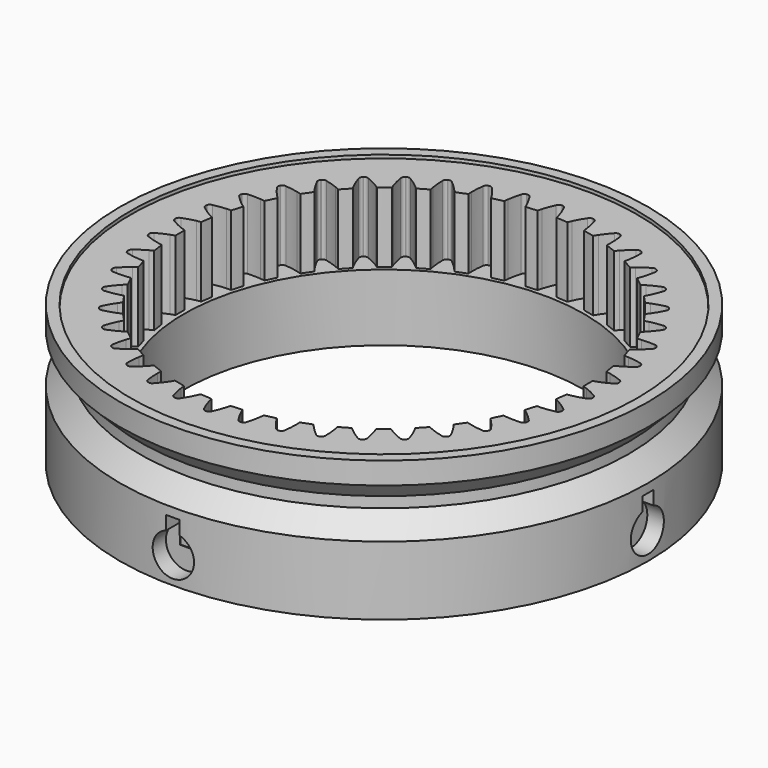
from build123d import *

# Parameters (mm, degrees)
PAD011_DEPTH          = 15
SKETCH019_R           = 0.15
SKETCH020_R           = 1.7
POCKET012_DEPTH       = 231.915721
POLARPATTERN001_COUNT = 6
POCKET013_DEPTH       = 2.55
POLARPATTERN_COUNT    = 6
SKETCH_R              = 1.5
POCKET_DEPTH          = 9
POLARPATTERN002_COUNT = 12
SKETCH022_W           = 2.6
SKETCH022_H           = 3.1
POLARPATTERN003_COUNT = 4
SKETCH023_W           = 2
SKETCH023_H           = 5
POCKET014_DEPTH       = 5
POLARPATTERN004_COUNT = 4
SKETCH024_R           = 30
POCKET015_DEPTH       = 21.001


with BuildPart() as pad011:
    # InvoluteGear005 → Pad011 (new body)
    with BuildSketch(Plane.XY.offset(10)):
        with BuildLine():
            add(Edge.make_bspline(
                [(32.945842, -1.894398), (32.276697, -1.515423), (31.687965, -1.251623), (31.199009, -1.06892)],
                knots=[0, 0, 0, 0, 1, 1, 1, 1], degree=3))
            add(Edge.make_bspline(
                [(31.199009, -1.06892), (30.97308, -0.984517), (30.768823, -0.917605), (30.587794, -0.864651)],
                knots=[0, 0, 0, 0, 1, 1, 1, 1], degree=3))
            ThreePointArc((30.587794, -0.864651), (30.575569, -2e-06), (30.587782, 0.864646))
            add(Edge.make_bspline(
                [(30.587782, 0.864646), (30.768823, 0.917605), (30.97308, 0.984517), (31.199009, 1.06892)],
                knots=[0, 0, 0, 0, 1, 1, 1, 1], degree=3))
            add(Edge.make_bspline(
                [(31.199009, 1.06892), (31.687965, 1.251623), (32.276697, 1.515423), (32.945842, 1.894398)],
                knots=[0, 0, 0, 0, 1, 1, 1, 1], degree=3))
            ThreePointArc((32.945842, 1.894398), (33.204161, 2.118555), (33.284887, 2.450909))
            ThreePointArc((33.284887, 2.450909), (33.281621, 2.494113), (33.278411, 2.537321))
            ThreePointArc((33.278411, 2.537321), (33.149052, 2.853931), (32.86021, 3.037084))
            add(Edge.make_bspline(
                [(32.86021, 3.037084), (32.142055, 3.312095), (31.520581, 3.485203), (31.009856, 3.59299)],
                knots=[0, 0, 0, 0, 1, 1, 1, 1], degree=3))
            add(Edge.make_bspline(
                [(31.009856, 3.59299), (30.773871, 3.642777), (30.561923, 3.678499), (30.375023, 3.703881)],
                knots=[0, 0, 0, 0, 1, 1, 1, 1], degree=3))
            ThreePointArc((30.375023, 3.703881), (30.234066, 4.55705), (30.117273, 5.413861))
            add(Edge.make_bspline(
                [(30.117273, 5.413861), (30.288399, 5.493211), (30.480402, 5.589819), (30.691228, 5.706952)],
                knots=[0, 0, 0, 0, 1, 1, 1, 1], degree=3))
            add(Edge.make_bspline(
                [(30.691228, 5.706952), (31.147492, 5.96049), (31.690331, 6.309089), (32.295519, 6.783562)],
                knots=[0, 0, 0, 0, 1, 1, 1, 1], degree=3))
            ThreePointArc((32.295519, 6.783562), (32.517544, 7.043716), (32.547833, 7.384389))
            ThreePointArc((32.547833, 7.384389), (32.538164, 7.426624), (32.52855, 7.468871))
            ThreePointArc((32.52855, 7.468871), (32.353449, 7.762665), (32.040535, 7.900723))
            add(Edge.make_bspline(
                [(32.040535, 7.900723), (31.289413, 8.065626), (30.64908, 8.144175), (30.127994, 8.174639)],
                knots=[0, 0, 0, 0, 1, 1, 1, 1], degree=3))
            add(Edge.make_bspline(
                [(30.127994, 8.174639), (29.887225, 8.188698), (29.67232, 8.192432), (29.483724, 8.189674)],
                knots=[0, 0, 0, 0, 1, 1, 1, 1], degree=3))
            ThreePointArc((29.483724, 8.189674), (29.217183, 9.012305), (28.973993, 9.842139))
            add(Edge.make_bspline(
                [(28.973993, 9.842139), (29.131382, 9.946108), (29.306842, 10.070254), (29.497855, 10.2175)],
                knots=[0, 0, 0, 0, 1, 1, 1, 1], degree=3))
            add(Edge.make_bspline(
                [(29.497855, 10.2175), (29.911235, 10.536209), (30.396055, 10.961821), (30.923768, 11.521192)],
                knots=[0, 0, 0, 0, 1, 1, 1, 1], degree=3))
            ThreePointArc((30.923768, 11.521192), (31.104538, 11.811532), (31.083714, 12.152914))
            ThreePointArc((31.083714, 12.152914), (31.067859, 12.193236), (31.052056, 12.233579))
            ThreePointArc((31.052056, 12.233579), (30.835122, 12.497993), (30.505127, 12.587872))
            add(Edge.make_bspline(
                [(30.505127, 12.587872), (29.737817, 12.638985), (29.092929, 12.621219), (28.573123, 12.573679)],
                knots=[0, 0, 0, 0, 1, 1, 1, 1], degree=3))
            add(Edge.make_bspline(
                [(28.573123, 12.573679), (28.332947, 12.551697), (28.119886, 12.523359), (27.933808, 12.492523)],
                knots=[0, 0, 0, 0, 1, 1, 1, 1], degree=3))
            ThreePointArc((27.933808, 12.492523), (27.547637, 13.26624), (27.183483, 14.05056))
            add(Edge.make_bspline(
                [(27.183483, 14.05056), (27.323618, 14.176826), (27.478615, 14.325735), (27.645549, 14.499806)],
                knots=[0, 0, 0, 0, 1, 1, 1, 1], degree=3))
            add(Edge.make_bspline(
                [(27.645549, 14.499806), (28.006811, 14.876566), (28.422782, 15.369683), (28.86123, 16.001458)],
                knots=[0, 0, 0, 0, 1, 1, 1, 1], degree=3))
            ThreePointArc((28.86123, 16.001458), (28.996709, 16.315498), (28.925237, 16.649963))
            ThreePointArc((28.925237, 16.649963), (28.903549, 16.687472), (28.88191, 16.725009))
            ThreePointArc((28.88191, 16.725009), (28.62799, 16.954138), (28.288285, 16.993829))
            add(Edge.make_bspline(
                [(28.288285, 16.993829), (27.521927, 16.93001), (26.88689, 16.816327), (26.379975, 16.691845)],
                knots=[0, 0, 0, 0, 1, 1, 1, 1], degree=3))
            add(Edge.make_bspline(
                [(26.379975, 16.691845), (26.145758, 16.634311), (25.9393, 16.574535), (25.759897, 16.51631)],
                knots=[0, 0, 0, 0, 1, 1, 1, 1], degree=3))
            ThreePointArc((25.759897, 16.51631), (25.262722, 17.223829), (24.785739, 17.945115))
            add(Edge.make_bspline(
                [(24.785739, 17.945115), (24.90549, 18.090856), (25.036562, 18.261204), (25.175687, 18.458211)],
                knots=[0, 0, 0, 0, 1, 1, 1, 1], degree=3))
            add(Edge.make_bspline(
                [(25.175687, 18.458211), (25.476761, 18.884606), (25.814591, 19.434212), (26.15398, 20.124279)],
                knots=[0, 0, 0, 0, 1, 1, 1, 1], degree=3))
            ThreePointArc((26.15398, 20.124279), (26.241141, 20.455003), (26.120618, 20.77508))
            ThreePointArc((26.120618, 20.77508), (26.093582, 20.808937), (26.06659, 20.842829))
            ThreePointArc((26.06659, 20.842829), (25.781356, 21.031554), (25.439529, 21.020172))
            add(Edge.make_bspline(
                [(25.439529, 21.020172), (24.691243, 20.842846), (24.080242, 20.635785), (23.597542, 20.437142)],
                knots=[0, 0, 0, 0, 1, 1, 1, 1], degree=3))
            add(Edge.make_bspline(
                [(23.597542, 20.437142), (23.374516, 20.345343), (23.179273, 20.255463), (23.010552, 20.17115)],
                knots=[0, 0, 0, 0, 1, 1, 1, 1], degree=3))
            ThreePointArc((23.010552, 20.17115), (22.41348, 20.796667), (21.834322, 21.438806))
            add(Edge.make_bspline(
                [(21.834322, 21.438806), (21.931014, 21.600767), (22.035233, 21.788747), (22.143442, 22.004289)],
                knots=[0, 0, 0, 0, 1, 1, 1, 1], degree=3))
            add(Edge.make_bspline(
                [(22.143442, 22.004289), (22.377602, 22.470795), (22.629744, 23.064613), (22.862494, 23.797555)],
                knots=[0, 0, 0, 0, 1, 1, 1, 1], degree=3))
            ThreePointArc((22.862494, 23.797555), (22.899389, 24.137576), (22.732507, 24.436116))
            ThreePointArc((22.732507, 24.436116), (22.700727, 24.465565), (22.668985, 24.495056))
            ThreePointArc((22.668985, 24.495056), (22.358809, 24.639161), (22.022496, 24.576959))
            add(Edge.make_bspline(
                [(22.022496, 24.576959), (21.308997, 24.290087), (20.735681, 23.994274), (20.287979, 23.725907)],
                knots=[0, 0, 0, 0, 1, 1, 1, 1], degree=3))
            add(Edge.make_bspline(
                [(20.287979, 23.725907), (20.081126, 23.601893), (19.90146, 23.483917), (19.747189, 23.375399)],
                knots=[0, 0, 0, 0, 1, 1, 1, 1], degree=3))
            ThreePointArc((19.747189, 23.375399), (19.063558, 23.904941), (18.395162, 24.453589))
            add(Edge.make_bspline(
                [(18.395162, 24.453589), (18.466635, 24.628152), (18.541673, 24.829566), (18.616549, 25.058828)],
                knots=[0, 0, 0, 0, 1, 1, 1, 1], degree=3))
            add(Edge.make_bspline(
                [(18.616549, 25.058828), (18.778565, 25.555023), (18.939386, 26.179789), (19.060297, 26.939234)],
                knots=[0, 0, 0, 0, 1, 1, 1, 1], degree=3))
            ThreePointArc((19.060297, 26.939234), (19.046103, 27.280956), (18.83659, 27.551289))
            ThreePointArc((18.83659, 27.551289), (18.800775, 27.575673), (18.764992, 27.600103))
            ThreePointArc((18.764992, 27.600103), (18.436803, 27.69637), (18.113518, 27.584738))
            add(Edge.make_bspline(
                [(18.113518, 27.584738), (17.450744, 27.194728), (16.92792, 26.816771), (16.525216, 26.484675)],
                knots=[0, 0, 0, 0, 1, 1, 1, 1], degree=3))
            add(Edge.make_bspline(
                [(16.525216, 26.484675), (16.339157, 26.331216), (16.179081, 26.18778), (16.042707, 26.057481)],
                knots=[0, 0, 0, 0, 1, 1, 1, 1], degree=3))
            ThreePointArc((16.042707, 26.057481), (15.287787, 26.479219), (14.545085, 26.922119))
            add(Edge.make_bspline(
                [(14.545085, 26.922119), (14.589743, 27.105385), (14.633923, 27.315733), (14.673793, 27.553594)],
                knots=[0, 0, 0, 0, 1, 1, 1, 1], degree=3))
            add(Edge.make_bspline(
                [(14.673793, 27.553594), (14.760045, 28.068394), (14.825954, 28.710151), (14.832325, 29.479135)],
                knots=[0, 0, 0, 0, 1, 1, 1, 1], degree=3))
            ThreePointArc((14.832325, 29.479135), (14.767358, 29.814925), (14.519894, 30.051012))
            ThreePointArc((14.519894, 30.051012), (14.480845, 30.069785), (14.441821, 30.08861))
            ThreePointArc((14.441821, 30.08861), (14.10295, 30.134887), (13.799913, 29.976319))
            add(Edge.make_bspline(
                [(13.799913, 29.976319), (13.202669, 29.491884), (12.742017, 29.040225), (12.393307, 28.651819)],
                knots=[0, 0, 0, 0, 1, 1, 1, 1], degree=3))
            add(Edge.make_bspline(
                [(12.393307, 28.651819), (12.232198, 28.472343), (12.095288, 28.306651), (11.979857, 28.157482)],
                knots=[0, 0, 0, 0, 1, 1, 1, 1], degree=3))
            ThreePointArc((11.979857, 28.157482), (11.170512, 28.461994), (10.370095, 28.789254))
            add(Edge.make_bspline(
                [(10.370095, 28.789254), (10.386939, 28.977129), (10.399276, 29.191712), (10.403249, 29.432859)],
                knots=[0, 0, 0, 0, 1, 1, 1, 1], degree=3))
            add(Edge.make_bspline(
                [(10.403249, 29.432859), (10.41181, 29.954764), (10.381334, 30.599176), (10.273023, 31.360521)],
                knots=[0, 0, 0, 0, 1, 1, 1, 1], degree=3))
            ThreePointArc((10.273023, 31.360521), (10.158735, 31.682877), (9.878848, 31.879445))
            ThreePointArc((9.878848, 31.879445), (9.837437, 31.892189), (9.796043, 31.904986))
            ThreePointArc((9.796043, 31.904986), (9.45406, 31.900241), (9.178041, 31.698278))
            add(Edge.make_bspline(
                [(9.178041, 31.698278), (8.659669, 31.13024), (8.271478, 30.614969), (7.984552, 30.178928)],
                knots=[0, 0, 0, 0, 1, 1, 1, 1], degree=3))
            add(Edge.make_bspline(
                [(7.984552, 30.178928), (7.851992, 29.977445), (7.741306, 29.793198), (7.649397, 29.628491)],
                knots=[0, 0, 0, 0, 1, 1, 1, 1], degree=3))
            ThreePointArc((7.649397, 29.628491), (6.803707, 29.808975), (5.963454, 30.013284))
            add(Edge.make_bspline(
                [(5.963454, 30.013284), (5.952109, 30.201571), (5.932325, 30.415596), (5.900313, 30.654642)],
                knots=[0, 0, 0, 0, 1, 1, 1, 1], degree=3))
            add(Edge.make_bspline(
                [(5.900313, 30.654642), (5.830993, 31.171994), (5.704813, 31.804667), (5.484239, 32.541364)],
                knots=[0, 0, 0, 0, 1, 1, 1, 1], degree=3))
            ThreePointArc((5.484239, 32.541364), (5.323182, 32.843086), (5.017125, 32.995743))
            ThreePointArc((5.017125, 32.995743), (4.974277, 33.002173), (4.931438, 33.008659))
            ThreePointArc((4.931438, 33.008659), (4.593981, 32.952996), (4.351146, 32.712151))
            add(Edge.make_bspline(
                [(4.351146, 32.712151), (3.923226, 32.073197), (3.616168, 31.505825), (3.397436, 31.03189)],
                knots=[0, 0, 0, 0, 1, 1, 1, 1], degree=3))
            add(Edge.make_bspline(
                [(3.397436, 31.03189), (3.296386, 30.8129), (3.214396, 30.614215), (3.148062, 30.437649)],
                knots=[0, 0, 0, 0, 1, 1, 1, 1], degree=3))
            ThreePointArc((3.148062, 30.437649), (2.284918, 30.490074), (1.423599, 30.566867))
            add(Edge.make_bspline(
                [(1.423599, 30.566867), (1.384318, 30.75136), (1.332857, 30.960046), (1.265574, 31.191651)],
                knots=[0, 0, 0, 0, 1, 1, 1, 1], degree=3))
            add(Edge.make_bspline(
                [(1.265574, 31.191651), (1.119921, 31.692893), (0.900855, 32.299693), (0.572945, 32.995288)],
                knots=[0, 0, 0, 0, 1, 1, 1, 1], degree=3))
            ThreePointArc((0.572945, 32.995288), (0.368719, 33.269636), (0.043327, 33.374972))
            ThreePointArc((0.043327, 33.374972), (0, 33.374944), (-0.043327, 33.374972))
            ThreePointArc((-0.043327, 33.374972), (-0.368719, 33.269636), (-0.572945, 32.995288))
            add(Edge.make_bspline(
                [(-0.572945, 32.995288), (-0.900855, 32.299693), (-1.119921, 31.692893), (-1.265574, 31.191651)],
                knots=[0, 0, 0, 0, 1, 1, 1, 1], degree=3))
            add(Edge.make_bspline(
                [(-1.265574, 31.191651), (-1.332857, 30.960046), (-1.384318, 30.75136), (-1.423596, 30.56688)],
                knots=[0, 0, 0, 0, 1, 1, 1, 1], degree=3))
            ThreePointArc((-1.423596, 30.56688), (-2.284913, 30.490074), (-3.148056, 30.437637))
            add(Edge.make_bspline(
                [(-3.148056, 30.437637), (-3.214396, 30.614215), (-3.296386, 30.8129), (-3.397436, 31.03189)],
                knots=[0, 0, 0, 0, 1, 1, 1, 1], degree=3))
            add(Edge.make_bspline(
                [(-3.397436, 31.03189), (-3.616168, 31.505825), (-3.923226, 32.073197), (-4.351146, 32.712151)],
                knots=[0, 0, 0, 0, 1, 1, 1, 1], degree=3))
            ThreePointArc((-4.351146, 32.712151), (-4.593981, 32.952996), (-4.931438, 33.008659))
            ThreePointArc((-4.931438, 33.008659), (-4.974277, 33.002173), (-5.017125, 32.995743))
            ThreePointArc((-5.017125, 32.995743), (-5.323182, 32.843086), (-5.484239, 32.541364))
            add(Edge.make_bspline(
                [(-5.484239, 32.541364), (-5.704813, 31.804667), (-5.830993, 31.171994), (-5.900313, 30.654642)],
                knots=[0, 0, 0, 0, 1, 1, 1, 1], degree=3))
            add(Edge.make_bspline(
                [(-5.900313, 30.654642), (-5.932325, 30.415596), (-5.952109, 30.201571), (-5.963452, 30.013297)],
                knots=[0, 0, 0, 0, 1, 1, 1, 1], degree=3))
            ThreePointArc((-5.963452, 30.013297), (-6.803702, 29.808977), (-7.649389, 29.62848))
            add(Edge.make_bspline(
                [(-7.649389, 29.62848), (-7.741306, 29.793198), (-7.851992, 29.977445), (-7.984552, 30.178928)],
                knots=[0, 0, 0, 0, 1, 1, 1, 1], degree=3))
            add(Edge.make_bspline(
                [(-7.984552, 30.178928), (-8.271478, 30.614969), (-8.659669, 31.13024), (-9.178041, 31.698278)],
                knots=[0, 0, 0, 0, 1, 1, 1, 1], degree=3))
            ThreePointArc((-9.178041, 31.698278), (-9.45406, 31.900241), (-9.796043, 31.904986))
            ThreePointArc((-9.796043, 31.904986), (-9.837437, 31.892189), (-9.878848, 31.879445))
            ThreePointArc((-9.878848, 31.879445), (-10.158735, 31.682877), (-10.273023, 31.360521))
            add(Edge.make_bspline(
                [(-10.273023, 31.360521), (-10.381334, 30.599176), (-10.41181, 29.954764), (-10.403249, 29.432859)],
                knots=[0, 0, 0, 0, 1, 1, 1, 1], degree=3))
            add(Edge.make_bspline(
                [(-10.403249, 29.432859), (-10.399276, 29.191712), (-10.386939, 28.977129), (-10.370095, 28.789267)],
                knots=[0, 0, 0, 0, 1, 1, 1, 1], degree=3))
            ThreePointArc((-10.370095, 28.789267), (-11.170508, 28.461996), (-11.979848, 28.157472))
            add(Edge.make_bspline(
                [(-11.979848, 28.157472), (-12.095288, 28.306651), (-12.232198, 28.472343), (-12.393307, 28.651819)],
                knots=[0, 0, 0, 0, 1, 1, 1, 1], degree=3))
            add(Edge.make_bspline(
                [(-12.393307, 28.651819), (-12.742017, 29.040225), (-13.202669, 29.491884), (-13.799913, 29.976319)],
                knots=[0, 0, 0, 0, 1, 1, 1, 1], degree=3))
            ThreePointArc((-13.799913, 29.976319), (-14.10295, 30.134887), (-14.441821, 30.08861))
            ThreePointArc((-14.441821, 30.08861), (-14.480845, 30.069785), (-14.519894, 30.051012))
            ThreePointArc((-14.519894, 30.051012), (-14.767358, 29.814925), (-14.832325, 29.479135))
            add(Edge.make_bspline(
                [(-14.832325, 29.479135), (-14.825954, 28.710151), (-14.760045, 28.068394), (-14.673793, 27.553594)],
                knots=[0, 0, 0, 0, 1, 1, 1, 1], degree=3))
            add(Edge.make_bspline(
                [(-14.673793, 27.553594), (-14.633923, 27.315733), (-14.589743, 27.105385), (-14.545087, 26.922132)],
                knots=[0, 0, 0, 0, 1, 1, 1, 1], degree=3))
            ThreePointArc((-14.545087, 26.922132), (-15.287783, 26.479221), (-16.042696, 26.057473))
            add(Edge.make_bspline(
                [(-16.042696, 26.057473), (-16.179081, 26.18778), (-16.339157, 26.331216), (-16.525216, 26.484675)],
                knots=[0, 0, 0, 0, 1, 1, 1, 1], degree=3))
            add(Edge.make_bspline(
                [(-16.525216, 26.484675), (-16.92792, 26.816771), (-17.450744, 27.194728), (-18.113518, 27.584738)],
                knots=[0, 0, 0, 0, 1, 1, 1, 1], degree=3))
            ThreePointArc((-18.113518, 27.584738), (-18.436803, 27.69637), (-18.764992, 27.600103))
            ThreePointArc((-18.764992, 27.600103), (-18.800775, 27.575673), (-18.83659, 27.551289))
            ThreePointArc((-18.83659, 27.551289), (-19.046103, 27.280956), (-19.060297, 26.939234))
            add(Edge.make_bspline(
                [(-19.060297, 26.939234), (-18.939386, 26.179789), (-18.778565, 25.555023), (-18.616549, 25.058828)],
                knots=[0, 0, 0, 0, 1, 1, 1, 1], degree=3))
            add(Edge.make_bspline(
                [(-18.616549, 25.058828), (-18.541673, 24.829566), (-18.466635, 24.628152), (-18.395166, 24.453601)],
                knots=[0, 0, 0, 0, 1, 1, 1, 1], degree=3))
            ThreePointArc((-18.395166, 24.453601), (-19.063554, 23.904944), (-19.747177, 23.375393))
            add(Edge.make_bspline(
                [(-19.747177, 23.375393), (-19.90146, 23.483917), (-20.081126, 23.601893), (-20.287979, 23.725907)],
                knots=[0, 0, 0, 0, 1, 1, 1, 1], degree=3))
            add(Edge.make_bspline(
                [(-20.287979, 23.725907), (-20.735681, 23.994274), (-21.308997, 24.290087), (-22.022496, 24.576959)],
                knots=[0, 0, 0, 0, 1, 1, 1, 1], degree=3))
            ThreePointArc((-22.022496, 24.576959), (-22.358809, 24.639161), (-22.668985, 24.495056))
            ThreePointArc((-22.668985, 24.495056), (-22.700727, 24.465565), (-22.732507, 24.436116))
            ThreePointArc((-22.732507, 24.436116), (-22.899389, 24.137576), (-22.862494, 23.797555))
            add(Edge.make_bspline(
                [(-22.862494, 23.797555), (-22.629744, 23.064613), (-22.377602, 22.470795), (-22.143442, 22.004289)],
                knots=[0, 0, 0, 0, 1, 1, 1, 1], degree=3))
            add(Edge.make_bspline(
                [(-22.143442, 22.004289), (-22.035233, 21.788747), (-21.931014, 21.600767), (-21.834328, 21.438817)],
                knots=[0, 0, 0, 0, 1, 1, 1, 1], degree=3))
            ThreePointArc((-21.834328, 21.438817), (-22.413477, 20.796671), (-23.010539, 20.171145))
            add(Edge.make_bspline(
                [(-23.010539, 20.171145), (-23.179273, 20.255463), (-23.374516, 20.345343), (-23.597542, 20.437142)],
                knots=[0, 0, 0, 0, 1, 1, 1, 1], degree=3))
            add(Edge.make_bspline(
                [(-23.597542, 20.437142), (-24.080242, 20.635785), (-24.691243, 20.842846), (-25.439529, 21.020172)],
                knots=[0, 0, 0, 0, 1, 1, 1, 1], degree=3))
            ThreePointArc((-25.439529, 21.020172), (-25.781356, 21.031554), (-26.06659, 20.842829))
            ThreePointArc((-26.06659, 20.842829), (-26.093582, 20.808937), (-26.120618, 20.77508))
            ThreePointArc((-26.120618, 20.77508), (-26.241141, 20.455003), (-26.15398, 20.124279))
            add(Edge.make_bspline(
                [(-26.15398, 20.124279), (-25.814591, 19.434212), (-25.476761, 18.884606), (-25.175687, 18.458211)],
                knots=[0, 0, 0, 0, 1, 1, 1, 1], degree=3))
            add(Edge.make_bspline(
                [(-25.175687, 18.458211), (-25.036562, 18.261204), (-24.90549, 18.090856), (-24.785746, 17.945126)],
                knots=[0, 0, 0, 0, 1, 1, 1, 1], degree=3))
            ThreePointArc((-24.785746, 17.945126), (-25.26272, 17.223834), (-25.759884, 16.516307))
            add(Edge.make_bspline(
                [(-25.759884, 16.516307), (-25.9393, 16.574535), (-26.145758, 16.634311), (-26.379975, 16.691845)],
                knots=[0, 0, 0, 0, 1, 1, 1, 1], degree=3))
            add(Edge.make_bspline(
                [(-26.379975, 16.691845), (-26.88689, 16.816327), (-27.521927, 16.93001), (-28.288285, 16.993829)],
                knots=[0, 0, 0, 0, 1, 1, 1, 1], degree=3))
            ThreePointArc((-28.288285, 16.993829), (-28.62799, 16.954138), (-28.88191, 16.725009))
            ThreePointArc((-28.88191, 16.725009), (-28.903549, 16.687472), (-28.925237, 16.649963))
            ThreePointArc((-28.925237, 16.649963), (-28.996709, 16.315498), (-28.86123, 16.001458))
            add(Edge.make_bspline(
                [(-28.86123, 16.001458), (-28.422782, 15.369683), (-28.006811, 14.876566), (-27.645549, 14.499806)],
                knots=[0, 0, 0, 0, 1, 1, 1, 1], degree=3))
            add(Edge.make_bspline(
                [(-27.645549, 14.499806), (-27.478615, 14.325735), (-27.323618, 14.176826), (-27.183492, 14.05057)],
                knots=[0, 0, 0, 0, 1, 1, 1, 1], degree=3))
            ThreePointArc((-27.183492, 14.05057), (-27.547635, 13.266245), (-27.933795, 12.492522))
            add(Edge.make_bspline(
                [(-27.933795, 12.492522), (-28.119886, 12.523359), (-28.332947, 12.551697), (-28.573123, 12.573679)],
                knots=[0, 0, 0, 0, 1, 1, 1, 1], degree=3))
            add(Edge.make_bspline(
                [(-28.573123, 12.573679), (-29.092929, 12.621219), (-29.737817, 12.638985), (-30.505127, 12.587872)],
                knots=[0, 0, 0, 0, 1, 1, 1, 1], degree=3))
            ThreePointArc((-30.505127, 12.587872), (-30.835122, 12.497993), (-31.052056, 12.233579))
            ThreePointArc((-31.052056, 12.233579), (-31.067859, 12.193236), (-31.083714, 12.152914))
            ThreePointArc((-31.083714, 12.152914), (-31.104538, 11.811532), (-30.923768, 11.521192))
            add(Edge.make_bspline(
                [(-30.923768, 11.521192), (-30.396055, 10.961821), (-29.911235, 10.536209), (-29.497855, 10.2175)],
                knots=[0, 0, 0, 0, 1, 1, 1, 1], degree=3))
            add(Edge.make_bspline(
                [(-29.497855, 10.2175), (-29.306842, 10.070254), (-29.131382, 9.946108), (-28.974004, 9.842147)],
                knots=[0, 0, 0, 0, 1, 1, 1, 1], degree=3))
            ThreePointArc((-28.974004, 9.842147), (-29.217182, 9.01231), (-29.483711, 8.189675))
            add(Edge.make_bspline(
                [(-29.483711, 8.189675), (-29.67232, 8.192432), (-29.887225, 8.188698), (-30.127994, 8.174639)],
                knots=[0, 0, 0, 0, 1, 1, 1, 1], degree=3))
            add(Edge.make_bspline(
                [(-30.127994, 8.174639), (-30.64908, 8.144175), (-31.289413, 8.065626), (-32.040535, 7.900723)],
                knots=[0, 0, 0, 0, 1, 1, 1, 1], degree=3))
            ThreePointArc((-32.040535, 7.900723), (-32.353449, 7.762665), (-32.52855, 7.468871))
            ThreePointArc((-32.52855, 7.468871), (-32.538164, 7.426624), (-32.547833, 7.384389))
            ThreePointArc((-32.547833, 7.384389), (-32.517544, 7.043716), (-32.295519, 6.783562))
            add(Edge.make_bspline(
                [(-32.295519, 6.783562), (-31.690331, 6.309089), (-31.147492, 5.96049), (-30.691228, 5.706952)],
                knots=[0, 0, 0, 0, 1, 1, 1, 1], degree=3))
            add(Edge.make_bspline(
                [(-30.691228, 5.706952), (-30.480402, 5.589819), (-30.288399, 5.493211), (-30.117284, 5.413868)],
                knots=[0, 0, 0, 0, 1, 1, 1, 1], degree=3))
            ThreePointArc((-30.117284, 5.413868), (-30.234065, 4.557055), (-30.37501, 3.703884))
            add(Edge.make_bspline(
                [(-30.37501, 3.703884), (-30.561923, 3.678499), (-30.773871, 3.642777), (-31.009856, 3.59299)],
                knots=[0, 0, 0, 0, 1, 1, 1, 1], degree=3))
            add(Edge.make_bspline(
                [(-31.009856, 3.59299), (-31.520581, 3.485203), (-32.142055, 3.312095), (-32.86021, 3.037084)],
                knots=[0, 0, 0, 0, 1, 1, 1, 1], degree=3))
            ThreePointArc((-32.86021, 3.037084), (-33.149052, 2.853931), (-33.278411, 2.537321))
            ThreePointArc((-33.278411, 2.537321), (-33.281621, 2.494113), (-33.284887, 2.450909))
            ThreePointArc((-33.284887, 2.450909), (-33.204161, 2.118555), (-32.945842, 1.894398))
            add(Edge.make_bspline(
                [(-32.945842, 1.894398), (-32.276697, 1.515423), (-31.687965, 1.251623), (-31.199009, 1.06892)],
                knots=[0, 0, 0, 0, 1, 1, 1, 1], degree=3))
            add(Edge.make_bspline(
                [(-31.199009, 1.06892), (-30.97308, 0.984517), (-30.768823, 0.917605), (-30.587794, 0.864651)],
                knots=[0, 0, 0, 0, 1, 1, 1, 1], degree=3))
            ThreePointArc((-30.587794, 0.864651), (-30.575569, 2e-06), (-30.587782, -0.864646))
            add(Edge.make_bspline(
                [(-30.587782, -0.864646), (-30.768823, -0.917605), (-30.97308, -0.984517), (-31.199009, -1.06892)],
                knots=[0, 0, 0, 0, 1, 1, 1, 1], degree=3))
            add(Edge.make_bspline(
                [(-31.199009, -1.06892), (-31.687965, -1.251623), (-32.276697, -1.515423), (-32.945842, -1.894398)],
                knots=[0, 0, 0, 0, 1, 1, 1, 1], degree=3))
            ThreePointArc((-32.945842, -1.894398), (-33.204161, -2.118555), (-33.284887, -2.450909))
            ThreePointArc((-33.284887, -2.450909), (-33.281621, -2.494113), (-33.278411, -2.537321))
            ThreePointArc((-33.278411, -2.537321), (-33.149052, -2.853931), (-32.86021, -3.037084))
            add(Edge.make_bspline(
                [(-32.86021, -3.037084), (-32.142055, -3.312095), (-31.520581, -3.485203), (-31.009856, -3.59299)],
                knots=[0, 0, 0, 0, 1, 1, 1, 1], degree=3))
            add(Edge.make_bspline(
                [(-31.009856, -3.59299), (-30.773871, -3.642777), (-30.561923, -3.678499), (-30.375023, -3.703881)],
                knots=[0, 0, 0, 0, 1, 1, 1, 1], degree=3))
            ThreePointArc((-30.375023, -3.703881), (-30.234066, -4.55705), (-30.117273, -5.413861))
            add(Edge.make_bspline(
                [(-30.117273, -5.413861), (-30.288399, -5.493211), (-30.480402, -5.589819), (-30.691228, -5.706952)],
                knots=[0, 0, 0, 0, 1, 1, 1, 1], degree=3))
            add(Edge.make_bspline(
                [(-30.691228, -5.706952), (-31.147492, -5.96049), (-31.690331, -6.309089), (-32.295519, -6.783562)],
                knots=[0, 0, 0, 0, 1, 1, 1, 1], degree=3))
            ThreePointArc((-32.295519, -6.783562), (-32.517544, -7.043716), (-32.547833, -7.384389))
            ThreePointArc((-32.547833, -7.384389), (-32.538164, -7.426624), (-32.52855, -7.468871))
            ThreePointArc((-32.52855, -7.468871), (-32.353449, -7.762665), (-32.040535, -7.900723))
            add(Edge.make_bspline(
                [(-32.040535, -7.900723), (-31.289413, -8.065626), (-30.64908, -8.144175), (-30.127994, -8.174639)],
                knots=[0, 0, 0, 0, 1, 1, 1, 1], degree=3))
            add(Edge.make_bspline(
                [(-30.127994, -8.174639), (-29.887225, -8.188698), (-29.67232, -8.192432), (-29.483724, -8.189674)],
                knots=[0, 0, 0, 0, 1, 1, 1, 1], degree=3))
            ThreePointArc((-29.483724, -8.189674), (-29.217183, -9.012305), (-28.973993, -9.842139))
            add(Edge.make_bspline(
                [(-28.973993, -9.842139), (-29.131382, -9.946108), (-29.306842, -10.070254), (-29.497855, -10.2175)],
                knots=[0, 0, 0, 0, 1, 1, 1, 1], degree=3))
            add(Edge.make_bspline(
                [(-29.497855, -10.2175), (-29.911235, -10.536209), (-30.396055, -10.961821), (-30.923768, -11.521192)],
                knots=[0, 0, 0, 0, 1, 1, 1, 1], degree=3))
            ThreePointArc((-30.923768, -11.521192), (-31.104538, -11.811532), (-31.083714, -12.152914))
            ThreePointArc((-31.083714, -12.152914), (-31.067859, -12.193236), (-31.052056, -12.233579))
            ThreePointArc((-31.052056, -12.233579), (-30.835122, -12.497993), (-30.505127, -12.587872))
            add(Edge.make_bspline(
                [(-30.505127, -12.587872), (-29.737817, -12.638985), (-29.092929, -12.621219), (-28.573123, -12.573679)],
                knots=[0, 0, 0, 0, 1, 1, 1, 1], degree=3))
            add(Edge.make_bspline(
                [(-28.573123, -12.573679), (-28.332947, -12.551697), (-28.119886, -12.523359), (-27.933808, -12.492523)],
                knots=[0, 0, 0, 0, 1, 1, 1, 1], degree=3))
            ThreePointArc((-27.933808, -12.492523), (-27.547637, -13.26624), (-27.183483, -14.05056))
            add(Edge.make_bspline(
                [(-27.183483, -14.05056), (-27.323618, -14.176826), (-27.478615, -14.325735), (-27.645549, -14.499806)],
                knots=[0, 0, 0, 0, 1, 1, 1, 1], degree=3))
            add(Edge.make_bspline(
                [(-27.645549, -14.499806), (-28.006811, -14.876566), (-28.422782, -15.369683), (-28.86123, -16.001458)],
                knots=[0, 0, 0, 0, 1, 1, 1, 1], degree=3))
            ThreePointArc((-28.86123, -16.001458), (-28.996709, -16.315498), (-28.925237, -16.649963))
            ThreePointArc((-28.925237, -16.649963), (-28.903549, -16.687472), (-28.88191, -16.725009))
            ThreePointArc((-28.88191, -16.725009), (-28.62799, -16.954138), (-28.288285, -16.993829))
            add(Edge.make_bspline(
                [(-28.288285, -16.993829), (-27.521927, -16.93001), (-26.88689, -16.816327), (-26.379975, -16.691845)],
                knots=[0, 0, 0, 0, 1, 1, 1, 1], degree=3))
            add(Edge.make_bspline(
                [(-26.379975, -16.691845), (-26.145758, -16.634311), (-25.9393, -16.574535), (-25.759897, -16.51631)],
                knots=[0, 0, 0, 0, 1, 1, 1, 1], degree=3))
            ThreePointArc((-25.759897, -16.51631), (-25.262722, -17.223829), (-24.785739, -17.945115))
            add(Edge.make_bspline(
                [(-24.785739, -17.945115), (-24.90549, -18.090856), (-25.036562, -18.261204), (-25.175687, -18.458211)],
                knots=[0, 0, 0, 0, 1, 1, 1, 1], degree=3))
            add(Edge.make_bspline(
                [(-25.175687, -18.458211), (-25.476761, -18.884606), (-25.814591, -19.434212), (-26.15398, -20.124279)],
                knots=[0, 0, 0, 0, 1, 1, 1, 1], degree=3))
            ThreePointArc((-26.15398, -20.124279), (-26.241141, -20.455003), (-26.120618, -20.77508))
            ThreePointArc((-26.120618, -20.77508), (-26.093582, -20.808937), (-26.06659, -20.842829))
            ThreePointArc((-26.06659, -20.842829), (-25.781356, -21.031554), (-25.439529, -21.020172))
            add(Edge.make_bspline(
                [(-25.439529, -21.020172), (-24.691243, -20.842846), (-24.080242, -20.635785), (-23.597542, -20.437142)],
                knots=[0, 0, 0, 0, 1, 1, 1, 1], degree=3))
            add(Edge.make_bspline(
                [(-23.597542, -20.437142), (-23.374516, -20.345343), (-23.179273, -20.255463), (-23.010552, -20.17115)],
                knots=[0, 0, 0, 0, 1, 1, 1, 1], degree=3))
            ThreePointArc((-23.010552, -20.17115), (-22.41348, -20.796667), (-21.834322, -21.438806))
            add(Edge.make_bspline(
                [(-21.834322, -21.438806), (-21.931014, -21.600767), (-22.035233, -21.788747), (-22.143442, -22.004289)],
                knots=[0, 0, 0, 0, 1, 1, 1, 1], degree=3))
            add(Edge.make_bspline(
                [(-22.143442, -22.004289), (-22.377602, -22.470795), (-22.629744, -23.064613), (-22.862494, -23.797555)],
                knots=[0, 0, 0, 0, 1, 1, 1, 1], degree=3))
            ThreePointArc((-22.862494, -23.797555), (-22.899389, -24.137576), (-22.732507, -24.436116))
            ThreePointArc((-22.732507, -24.436116), (-22.700727, -24.465565), (-22.668985, -24.495056))
            ThreePointArc((-22.668985, -24.495056), (-22.358809, -24.639161), (-22.022496, -24.576959))
            add(Edge.make_bspline(
                [(-22.022496, -24.576959), (-21.308997, -24.290087), (-20.735681, -23.994274), (-20.287979, -23.725907)],
                knots=[0, 0, 0, 0, 1, 1, 1, 1], degree=3))
            add(Edge.make_bspline(
                [(-20.287979, -23.725907), (-20.081126, -23.601893), (-19.90146, -23.483917), (-19.747189, -23.375399)],
                knots=[0, 0, 0, 0, 1, 1, 1, 1], degree=3))
            ThreePointArc((-19.747189, -23.375399), (-19.063558, -23.904941), (-18.395162, -24.453589))
            add(Edge.make_bspline(
                [(-18.395162, -24.453589), (-18.466635, -24.628152), (-18.541673, -24.829566), (-18.616549, -25.058828)],
                knots=[0, 0, 0, 0, 1, 1, 1, 1], degree=3))
            add(Edge.make_bspline(
                [(-18.616549, -25.058828), (-18.778565, -25.555023), (-18.939386, -26.179789), (-19.060297, -26.939234)],
                knots=[0, 0, 0, 0, 1, 1, 1, 1], degree=3))
            ThreePointArc((-19.060297, -26.939234), (-19.046103, -27.280956), (-18.83659, -27.551289))
            ThreePointArc((-18.83659, -27.551289), (-18.800775, -27.575673), (-18.764992, -27.600103))
            ThreePointArc((-18.764992, -27.600103), (-18.436803, -27.69637), (-18.113518, -27.584738))
            add(Edge.make_bspline(
                [(-18.113518, -27.584738), (-17.450744, -27.194728), (-16.92792, -26.816771), (-16.525216, -26.484675)],
                knots=[0, 0, 0, 0, 1, 1, 1, 1], degree=3))
            add(Edge.make_bspline(
                [(-16.525216, -26.484675), (-16.339157, -26.331216), (-16.179081, -26.18778), (-16.042707, -26.057481)],
                knots=[0, 0, 0, 0, 1, 1, 1, 1], degree=3))
            ThreePointArc((-16.042707, -26.057481), (-15.287787, -26.479219), (-14.545085, -26.922119))
            add(Edge.make_bspline(
                [(-14.545085, -26.922119), (-14.589743, -27.105385), (-14.633923, -27.315733), (-14.673793, -27.553594)],
                knots=[0, 0, 0, 0, 1, 1, 1, 1], degree=3))
            add(Edge.make_bspline(
                [(-14.673793, -27.553594), (-14.760045, -28.068394), (-14.825954, -28.710151), (-14.832325, -29.479135)],
                knots=[0, 0, 0, 0, 1, 1, 1, 1], degree=3))
            ThreePointArc((-14.832325, -29.479135), (-14.767358, -29.814925), (-14.519894, -30.051012))
            ThreePointArc((-14.519894, -30.051012), (-14.480845, -30.069785), (-14.441821, -30.08861))
            ThreePointArc((-14.441821, -30.08861), (-14.10295, -30.134887), (-13.799913, -29.976319))
            add(Edge.make_bspline(
                [(-13.799913, -29.976319), (-13.202669, -29.491884), (-12.742017, -29.040225), (-12.393307, -28.651819)],
                knots=[0, 0, 0, 0, 1, 1, 1, 1], degree=3))
            add(Edge.make_bspline(
                [(-12.393307, -28.651819), (-12.232198, -28.472343), (-12.095288, -28.306651), (-11.979857, -28.157482)],
                knots=[0, 0, 0, 0, 1, 1, 1, 1], degree=3))
            ThreePointArc((-11.979857, -28.157482), (-11.170512, -28.461994), (-10.370095, -28.789254))
            add(Edge.make_bspline(
                [(-10.370095, -28.789254), (-10.386939, -28.977129), (-10.399276, -29.191712), (-10.403249, -29.432859)],
                knots=[0, 0, 0, 0, 1, 1, 1, 1], degree=3))
            add(Edge.make_bspline(
                [(-10.403249, -29.432859), (-10.41181, -29.954764), (-10.381334, -30.599176), (-10.273023, -31.360521)],
                knots=[0, 0, 0, 0, 1, 1, 1, 1], degree=3))
            ThreePointArc((-10.273023, -31.360521), (-10.158735, -31.682877), (-9.878848, -31.879445))
            ThreePointArc((-9.878848, -31.879445), (-9.837437, -31.892189), (-9.796043, -31.904986))
            ThreePointArc((-9.796043, -31.904986), (-9.45406, -31.900241), (-9.178041, -31.698278))
            add(Edge.make_bspline(
                [(-9.178041, -31.698278), (-8.659669, -31.13024), (-8.271478, -30.614969), (-7.984552, -30.178928)],
                knots=[0, 0, 0, 0, 1, 1, 1, 1], degree=3))
            add(Edge.make_bspline(
                [(-7.984552, -30.178928), (-7.851992, -29.977445), (-7.741306, -29.793198), (-7.649397, -29.628491)],
                knots=[0, 0, 0, 0, 1, 1, 1, 1], degree=3))
            ThreePointArc((-7.649397, -29.628491), (-6.803707, -29.808975), (-5.963454, -30.013284))
            add(Edge.make_bspline(
                [(-5.963454, -30.013284), (-5.952109, -30.201571), (-5.932325, -30.415596), (-5.900313, -30.654642)],
                knots=[0, 0, 0, 0, 1, 1, 1, 1], degree=3))
            add(Edge.make_bspline(
                [(-5.900313, -30.654642), (-5.830993, -31.171994), (-5.704813, -31.804667), (-5.484239, -32.541364)],
                knots=[0, 0, 0, 0, 1, 1, 1, 1], degree=3))
            ThreePointArc((-5.484239, -32.541364), (-5.323182, -32.843086), (-5.017125, -32.995743))
            ThreePointArc((-5.017125, -32.995743), (-4.974277, -33.002173), (-4.931438, -33.008659))
            ThreePointArc((-4.931438, -33.008659), (-4.593981, -32.952996), (-4.351146, -32.712151))
            add(Edge.make_bspline(
                [(-4.351146, -32.712151), (-3.923226, -32.073197), (-3.616168, -31.505825), (-3.397436, -31.03189)],
                knots=[0, 0, 0, 0, 1, 1, 1, 1], degree=3))
            add(Edge.make_bspline(
                [(-3.397436, -31.03189), (-3.296386, -30.8129), (-3.214396, -30.614215), (-3.148062, -30.437649)],
                knots=[0, 0, 0, 0, 1, 1, 1, 1], degree=3))
            ThreePointArc((-3.148062, -30.437649), (-2.284918, -30.490074), (-1.423599, -30.566867))
            add(Edge.make_bspline(
                [(-1.423599, -30.566867), (-1.384318, -30.75136), (-1.332857, -30.960046), (-1.265574, -31.191651)],
                knots=[0, 0, 0, 0, 1, 1, 1, 1], degree=3))
            add(Edge.make_bspline(
                [(-1.265574, -31.191651), (-1.119921, -31.692893), (-0.900855, -32.299693), (-0.572945, -32.995288)],
                knots=[0, 0, 0, 0, 1, 1, 1, 1], degree=3))
            ThreePointArc((-0.572945, -32.995288), (-0.368719, -33.269636), (-0.043327, -33.374972))
            ThreePointArc((-0.043327, -33.374972), (0, -33.374944), (0.043327, -33.374972))
            ThreePointArc((0.043327, -33.374972), (0.368719, -33.269636), (0.572945, -32.995288))
            add(Edge.make_bspline(
                [(0.572945, -32.995288), (0.900855, -32.299693), (1.119921, -31.692893), (1.265574, -31.191651)],
                knots=[0, 0, 0, 0, 1, 1, 1, 1], degree=3))
            add(Edge.make_bspline(
                [(1.265574, -31.191651), (1.332857, -30.960046), (1.384318, -30.75136), (1.423596, -30.56688)],
                knots=[0, 0, 0, 0, 1, 1, 1, 1], degree=3))
            ThreePointArc((1.423596, -30.56688), (2.284913, -30.490074), (3.148056, -30.437637))
            add(Edge.make_bspline(
                [(3.148056, -30.437637), (3.214396, -30.614215), (3.296386, -30.8129), (3.397436, -31.03189)],
                knots=[0, 0, 0, 0, 1, 1, 1, 1], degree=3))
            add(Edge.make_bspline(
                [(3.397436, -31.03189), (3.616168, -31.505825), (3.923226, -32.073197), (4.351146, -32.712151)],
                knots=[0, 0, 0, 0, 1, 1, 1, 1], degree=3))
            ThreePointArc((4.351146, -32.712151), (4.593981, -32.952996), (4.931438, -33.008659))
            ThreePointArc((4.931438, -33.008659), (4.974277, -33.002173), (5.017125, -32.995743))
            ThreePointArc((5.017125, -32.995743), (5.323182, -32.843086), (5.484239, -32.541364))
            add(Edge.make_bspline(
                [(5.484239, -32.541364), (5.704813, -31.804667), (5.830993, -31.171994), (5.900313, -30.654642)],
                knots=[0, 0, 0, 0, 1, 1, 1, 1], degree=3))
            add(Edge.make_bspline(
                [(5.900313, -30.654642), (5.932325, -30.415596), (5.952109, -30.201571), (5.963452, -30.013297)],
                knots=[0, 0, 0, 0, 1, 1, 1, 1], degree=3))
            ThreePointArc((5.963452, -30.013297), (6.803702, -29.808977), (7.649389, -29.62848))
            add(Edge.make_bspline(
                [(7.649389, -29.62848), (7.741306, -29.793198), (7.851992, -29.977445), (7.984552, -30.178928)],
                knots=[0, 0, 0, 0, 1, 1, 1, 1], degree=3))
            add(Edge.make_bspline(
                [(7.984552, -30.178928), (8.271478, -30.614969), (8.659669, -31.13024), (9.178041, -31.698278)],
                knots=[0, 0, 0, 0, 1, 1, 1, 1], degree=3))
            ThreePointArc((9.178041, -31.698278), (9.45406, -31.900241), (9.796043, -31.904986))
            ThreePointArc((9.796043, -31.904986), (9.837437, -31.892189), (9.878848, -31.879445))
            ThreePointArc((9.878848, -31.879445), (10.158735, -31.682877), (10.273023, -31.360521))
            add(Edge.make_bspline(
                [(10.273023, -31.360521), (10.381334, -30.599176), (10.41181, -29.954764), (10.403249, -29.432859)],
                knots=[0, 0, 0, 0, 1, 1, 1, 1], degree=3))
            add(Edge.make_bspline(
                [(10.403249, -29.432859), (10.399276, -29.191712), (10.386939, -28.977129), (10.370095, -28.789267)],
                knots=[0, 0, 0, 0, 1, 1, 1, 1], degree=3))
            ThreePointArc((10.370095, -28.789267), (11.170508, -28.461996), (11.979848, -28.157472))
            add(Edge.make_bspline(
                [(11.979848, -28.157472), (12.095288, -28.306651), (12.232198, -28.472343), (12.393307, -28.651819)],
                knots=[0, 0, 0, 0, 1, 1, 1, 1], degree=3))
            add(Edge.make_bspline(
                [(12.393307, -28.651819), (12.742017, -29.040225), (13.202669, -29.491884), (13.799913, -29.976319)],
                knots=[0, 0, 0, 0, 1, 1, 1, 1], degree=3))
            ThreePointArc((13.799913, -29.976319), (14.10295, -30.134887), (14.441821, -30.08861))
            ThreePointArc((14.441821, -30.08861), (14.480845, -30.069785), (14.519894, -30.051012))
            ThreePointArc((14.519894, -30.051012), (14.767358, -29.814925), (14.832325, -29.479135))
            add(Edge.make_bspline(
                [(14.832325, -29.479135), (14.825954, -28.710151), (14.760045, -28.068394), (14.673793, -27.553594)],
                knots=[0, 0, 0, 0, 1, 1, 1, 1], degree=3))
            add(Edge.make_bspline(
                [(14.673793, -27.553594), (14.633923, -27.315733), (14.589743, -27.105385), (14.545087, -26.922132)],
                knots=[0, 0, 0, 0, 1, 1, 1, 1], degree=3))
            ThreePointArc((14.545087, -26.922132), (15.287783, -26.479221), (16.042696, -26.057473))
            add(Edge.make_bspline(
                [(16.042696, -26.057473), (16.179081, -26.18778), (16.339157, -26.331216), (16.525216, -26.484675)],
                knots=[0, 0, 0, 0, 1, 1, 1, 1], degree=3))
            add(Edge.make_bspline(
                [(16.525216, -26.484675), (16.92792, -26.816771), (17.450744, -27.194728), (18.113518, -27.584738)],
                knots=[0, 0, 0, 0, 1, 1, 1, 1], degree=3))
            ThreePointArc((18.113518, -27.584738), (18.436803, -27.69637), (18.764992, -27.600103))
            ThreePointArc((18.764992, -27.600103), (18.800775, -27.575673), (18.83659, -27.551289))
            ThreePointArc((18.83659, -27.551289), (19.046103, -27.280956), (19.060297, -26.939234))
            add(Edge.make_bspline(
                [(19.060297, -26.939234), (18.939386, -26.179789), (18.778565, -25.555023), (18.616549, -25.058828)],
                knots=[0, 0, 0, 0, 1, 1, 1, 1], degree=3))
            add(Edge.make_bspline(
                [(18.616549, -25.058828), (18.541673, -24.829566), (18.466635, -24.628152), (18.395166, -24.453601)],
                knots=[0, 0, 0, 0, 1, 1, 1, 1], degree=3))
            ThreePointArc((18.395166, -24.453601), (19.063554, -23.904944), (19.747177, -23.375393))
            add(Edge.make_bspline(
                [(19.747177, -23.375393), (19.90146, -23.483917), (20.081126, -23.601893), (20.287979, -23.725907)],
                knots=[0, 0, 0, 0, 1, 1, 1, 1], degree=3))
            add(Edge.make_bspline(
                [(20.287979, -23.725907), (20.735681, -23.994274), (21.308997, -24.290087), (22.022496, -24.576959)],
                knots=[0, 0, 0, 0, 1, 1, 1, 1], degree=3))
            ThreePointArc((22.022496, -24.576959), (22.358809, -24.639161), (22.668985, -24.495056))
            ThreePointArc((22.668985, -24.495056), (22.700727, -24.465565), (22.732507, -24.436116))
            ThreePointArc((22.732507, -24.436116), (22.899389, -24.137576), (22.862494, -23.797555))
            add(Edge.make_bspline(
                [(22.862494, -23.797555), (22.629744, -23.064613), (22.377602, -22.470795), (22.143442, -22.004289)],
                knots=[0, 0, 0, 0, 1, 1, 1, 1], degree=3))
            add(Edge.make_bspline(
                [(22.143442, -22.004289), (22.035233, -21.788747), (21.931014, -21.600767), (21.834328, -21.438817)],
                knots=[0, 0, 0, 0, 1, 1, 1, 1], degree=3))
            ThreePointArc((21.834328, -21.438817), (22.413477, -20.796671), (23.010539, -20.171145))
            add(Edge.make_bspline(
                [(23.010539, -20.171145), (23.179273, -20.255463), (23.374516, -20.345343), (23.597542, -20.437142)],
                knots=[0, 0, 0, 0, 1, 1, 1, 1], degree=3))
            add(Edge.make_bspline(
                [(23.597542, -20.437142), (24.080242, -20.635785), (24.691243, -20.842846), (25.439529, -21.020172)],
                knots=[0, 0, 0, 0, 1, 1, 1, 1], degree=3))
            ThreePointArc((25.439529, -21.020172), (25.781356, -21.031554), (26.06659, -20.842829))
            ThreePointArc((26.06659, -20.842829), (26.093582, -20.808937), (26.120618, -20.77508))
            ThreePointArc((26.120618, -20.77508), (26.241141, -20.455003), (26.15398, -20.124279))
            add(Edge.make_bspline(
                [(26.15398, -20.124279), (25.814591, -19.434212), (25.476761, -18.884606), (25.175687, -18.458211)],
                knots=[0, 0, 0, 0, 1, 1, 1, 1], degree=3))
            add(Edge.make_bspline(
                [(25.175687, -18.458211), (25.036562, -18.261204), (24.90549, -18.090856), (24.785746, -17.945126)],
                knots=[0, 0, 0, 0, 1, 1, 1, 1], degree=3))
            ThreePointArc((24.785746, -17.945126), (25.26272, -17.223834), (25.759884, -16.516307))
            add(Edge.make_bspline(
                [(25.759884, -16.516307), (25.9393, -16.574535), (26.145758, -16.634311), (26.379975, -16.691845)],
                knots=[0, 0, 0, 0, 1, 1, 1, 1], degree=3))
            add(Edge.make_bspline(
                [(26.379975, -16.691845), (26.88689, -16.816327), (27.521927, -16.93001), (28.288285, -16.993829)],
                knots=[0, 0, 0, 0, 1, 1, 1, 1], degree=3))
            ThreePointArc((28.288285, -16.993829), (28.62799, -16.954138), (28.88191, -16.725009))
            ThreePointArc((28.88191, -16.725009), (28.903549, -16.687472), (28.925237, -16.649963))
            ThreePointArc((28.925237, -16.649963), (28.996709, -16.315498), (28.86123, -16.001458))
            add(Edge.make_bspline(
                [(28.86123, -16.001458), (28.422782, -15.369683), (28.006811, -14.876566), (27.645549, -14.499806)],
                knots=[0, 0, 0, 0, 1, 1, 1, 1], degree=3))
            add(Edge.make_bspline(
                [(27.645549, -14.499806), (27.478615, -14.325735), (27.323618, -14.176826), (27.183492, -14.05057)],
                knots=[0, 0, 0, 0, 1, 1, 1, 1], degree=3))
            ThreePointArc((27.183492, -14.05057), (27.547635, -13.266245), (27.933795, -12.492522))
            add(Edge.make_bspline(
                [(27.933795, -12.492522), (28.119886, -12.523359), (28.332947, -12.551697), (28.573123, -12.573679)],
                knots=[0, 0, 0, 0, 1, 1, 1, 1], degree=3))
            add(Edge.make_bspline(
                [(28.573123, -12.573679), (29.092929, -12.621219), (29.737817, -12.638985), (30.505127, -12.587872)],
                knots=[0, 0, 0, 0, 1, 1, 1, 1], degree=3))
            ThreePointArc((30.505127, -12.587872), (30.835122, -12.497993), (31.052056, -12.233579))
            ThreePointArc((31.052056, -12.233579), (31.067859, -12.193236), (31.083714, -12.152914))
            ThreePointArc((31.083714, -12.152914), (31.104538, -11.811532), (30.923768, -11.521192))
            add(Edge.make_bspline(
                [(30.923768, -11.521192), (30.396055, -10.961821), (29.911235, -10.536209), (29.497855, -10.2175)],
                knots=[0, 0, 0, 0, 1, 1, 1, 1], degree=3))
            add(Edge.make_bspline(
                [(29.497855, -10.2175), (29.306842, -10.070254), (29.131382, -9.946108), (28.974004, -9.842147)],
                knots=[0, 0, 0, 0, 1, 1, 1, 1], degree=3))
            ThreePointArc((28.974004, -9.842147), (29.217182, -9.01231), (29.483711, -8.189675))
            add(Edge.make_bspline(
                [(29.483711, -8.189675), (29.67232, -8.192432), (29.887225, -8.188698), (30.127994, -8.174639)],
                knots=[0, 0, 0, 0, 1, 1, 1, 1], degree=3))
            add(Edge.make_bspline(
                [(30.127994, -8.174639), (30.64908, -8.144175), (31.289413, -8.065626), (32.040535, -7.900723)],
                knots=[0, 0, 0, 0, 1, 1, 1, 1], degree=3))
            ThreePointArc((32.040535, -7.900723), (32.353449, -7.762665), (32.52855, -7.468871))
            ThreePointArc((32.52855, -7.468871), (32.538164, -7.426624), (32.547833, -7.384389))
            ThreePointArc((32.547833, -7.384389), (32.517544, -7.043716), (32.295519, -6.783562))
            add(Edge.make_bspline(
                [(32.295519, -6.783562), (31.690331, -6.309089), (31.147492, -5.96049), (30.691228, -5.706952)],
                knots=[0, 0, 0, 0, 1, 1, 1, 1], degree=3))
            add(Edge.make_bspline(
                [(30.691228, -5.706952), (30.480402, -5.589819), (30.288399, -5.493211), (30.117284, -5.413868)],
                knots=[0, 0, 0, 0, 1, 1, 1, 1], degree=3))
            ThreePointArc((30.117284, -5.413868), (30.234065, -4.557055), (30.37501, -3.703884))
            add(Edge.make_bspline(
                [(30.37501, -3.703884), (30.561923, -3.678499), (30.773871, -3.642777), (31.009856, -3.59299)],
                knots=[0, 0, 0, 0, 1, 1, 1, 1], degree=3))
            add(Edge.make_bspline(
                [(31.009856, -3.59299), (31.520581, -3.485203), (32.142055, -3.312095), (32.86021, -3.037084)],
                knots=[0, 0, 0, 0, 1, 1, 1, 1], degree=3))
            ThreePointArc((32.86021, -3.037084), (33.149052, -2.853931), (33.278411, -2.537321))
            ThreePointArc((33.278411, -2.537321), (33.281621, -2.494113), (33.284887, -2.450909))
            ThreePointArc((33.284887, -2.450909), (33.204161, -2.118555), (32.945842, -1.894398))
        make_face()
    extrude(amount=PAD011_DEPTH)


with BuildPart() as pocket015:
    # Sketch019 → Revolution001 (revolve)
    with BuildSketch(Plane.XZ):
        Polygon((3.2, 8.5), (3.2, 0), (39.6, 0), (39.6, 10.298781), (36.7, 13.198781), (36.7, 14.801219), (39.6, 17.701219), (39.6, 21), (38, 21), (38, 20.5), (30, 20.5), (30, 4), (5.5, 4), (5.5, 8.5), align=None)
        with Locations((36.88873, 10.88873)):
            Circle(SKETCH019_R, mode=Mode.SUBTRACT)
        with Locations((36.88873, 17.11127)):
            Circle(SKETCH019_R, mode=Mode.SUBTRACT)
        with Locations((36.5, 19)):
            Circle(SKETCH019_R, mode=Mode.SUBTRACT)
        with Locations((35.57868, 15.801219)):
            Circle(SKETCH019_R, mode=Mode.SUBTRACT)
        with Locations((35.57868, 12.198781)):
            Circle(SKETCH019_R, mode=Mode.SUBTRACT)
        with Locations((35.57868, 14)):
            Circle(SKETCH019_R, mode=Mode.SUBTRACT)
        with Locations((38.090812, 18.313351)):
            Circle(SKETCH019_R, mode=Mode.SUBTRACT)
    revolve(axis=Axis((0, 0, 0), (0, 0, 1)))

    # Cut001: cut Pad011
    add(pad011.part, mode=Mode.SUBTRACT)

    # Sketch020 → Pocket012 (cut, through all)
    with BuildSketch(Plane.XY.offset(4)):
        with Locations((25, 0)):
            Circle(SKETCH020_R)
    pocket012 = extrude(amount=-POCKET012_DEPTH, mode=Mode.SUBTRACT)

    # PolarPattern001: Pocket012 ×6 about axis
    polarpattern001_axis = Axis((0, 0, 4), (0, 0, 1))
    for i in range(1, POLARPATTERN001_COUNT):
        add(pocket012.rotate(polarpattern001_axis, i * 360 / POLARPATTERN001_COUNT), mode=Mode.SUBTRACT)

    # Sketch021 → Pocket013 (cut)
    with BuildSketch(Plane.XY.offset(4)):
        Polygon((26.616581, 2.8), (23.383419, 2.8), (21.766838, 0), (23.383419, -2.8), (26.616581, -2.8), (28.233162, 0), align=None)
    pocket013 = extrude(amount=-POCKET013_DEPTH, mode=Mode.SUBTRACT)

    # PolarPattern: Pocket013 ×6 about axis
    polarpattern_axis = Axis((0, 0, 4), (0, 0, 1))
    for i in range(1, POLARPATTERN_COUNT):
        add(pocket013.rotate(polarpattern_axis, i * 360 / POLARPATTERN_COUNT), mode=Mode.SUBTRACT)

    # Sketch → Pocket (cut)
    with BuildSketch(Plane.XY.offset(8.5)):
        with Locations((34.5, 0)):
            Circle(SKETCH_R)
    pocket = extrude(amount=-POCKET_DEPTH, mode=Mode.SUBTRACT)

    # PolarPattern002: Pocket ×12 about axis
    polarpattern002_axis = Axis((0, 0, 8.5), (0, 0, 1))
    for i in range(1, POLARPATTERN002_COUNT):
        add(pocket.rotate(polarpattern002_axis, i * 360 / POLARPATTERN002_COUNT), mode=Mode.SUBTRACT)

    # Sketch022 → Groove (revolve, cut)
    with BuildSketch(Plane.XY.offset(4)):
        with Locations((-38.3, 1.55)):
            Rectangle(SKETCH022_W, SKETCH022_H)
    groove = revolve(axis=Axis((0, 0, 4), (1, 0, 0)), mode=Mode.SUBTRACT)

    # PolarPattern003: Groove ×4 about axis
    polarpattern003_axis = Axis((0, 0, 4), (0, 0, 1))
    for i in range(1, POLARPATTERN003_COUNT):
        add(groove.rotate(polarpattern003_axis, i * 360 / POLARPATTERN003_COUNT), mode=Mode.SUBTRACT)

    # Sketch023 → Pocket014 (cut)
    with BuildSketch(Plane.XY.offset(4)):
        with Locations((0, 39.4)):
            Rectangle(SKETCH023_W, SKETCH023_H)
    pocket014 = extrude(amount=POCKET014_DEPTH, mode=Mode.SUBTRACT)

    # PolarPattern004: Pocket014 ×4 about axis
    polarpattern004_axis = Axis((0, 0, 4), (0, 0, 1))
    for i in range(1, POLARPATTERN004_COUNT):
        add(pocket014.rotate(polarpattern004_axis, i * 360 / POLARPATTERN004_COUNT), mode=Mode.SUBTRACT)

    # Sketch024 → Pocket015 (cut, through all)
    with BuildSketch(Plane(origin=(0, 0, 0), x_dir=(1, 0, 0), z_dir=(0, 0, -1))):
        Circle(SKETCH024_R)
    extrude(amount=-POCKET015_DEPTH, mode=Mode.SUBTRACT)


solid = pocket015.part
